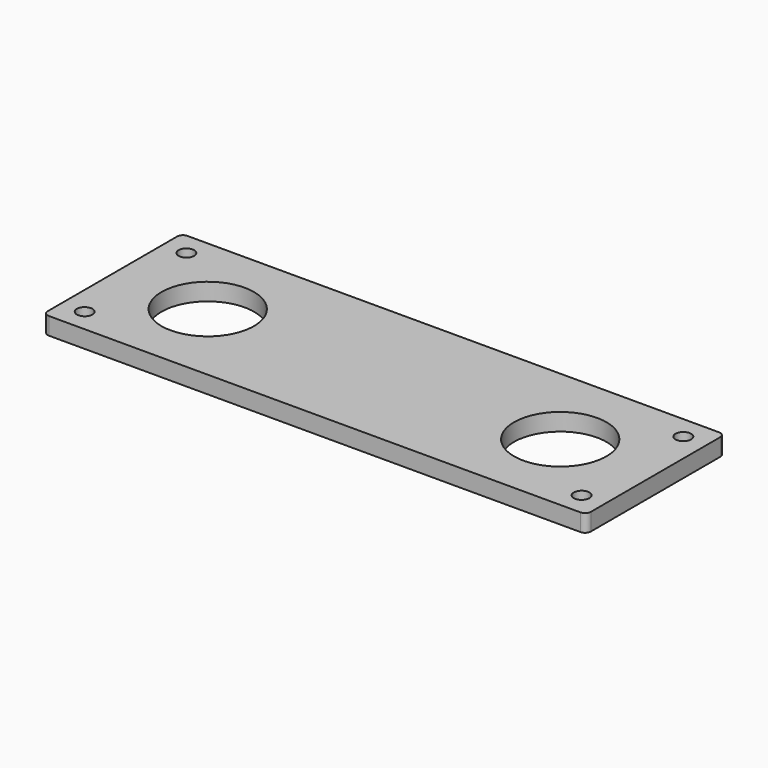
from build123d import *

# Parameters (mm, degrees)
SKETCH006_W             = 94
SKETCH006_H             = 30
PAD002_DEPTH            = 3
SKETCH008_R             = 8
HOLE002_DEPTH           = 25
SKETCH007_R             = 1.35
HOLE003_DEPTH           = 25
FILLET001_R             = 1
BODY001_PLACEMENT_ANGLE = 180


with BuildPart() as part:
    # Sketch006 → Pad002 (new body)
    with BuildSketch(Plane(origin=(0, 0, -13), x_dir=(1, 0, 0), z_dir=(0, 0, -1))):
        with Locations((107, 0)):
            Rectangle(SKETCH006_W, SKETCH006_H)
    extrude(amount=-PAD002_DEPTH)

    # Sketch008 (on Face6 of Pad002) → Hole002 (cut)
    with BuildSketch(Plane.XY.offset(-10)):
        with Locations((76.5, 0)):
            Circle(SKETCH008_R)
        with Locations((137.5, 0)):
            Circle(SKETCH008_R)
    extrude(amount=-HOLE002_DEPTH, mode=Mode.SUBTRACT)

    # Sketch007 (on Face5 of Pad002) → Hole003 (cut)
    with BuildSketch(Plane(origin=(0, 0, -13), x_dir=(1, 0, 0), z_dir=(0, 0, -1))):
        with Locations((64, -11)):
            Circle(SKETCH007_R)
        with Locations((64, 11)):
            Circle(SKETCH007_R)
        with Locations((150, 11)):
            Circle(SKETCH007_R)
        with Locations((150, -11)):
            Circle(SKETCH007_R)
    extrude(amount=-HOLE003_DEPTH, mode=Mode.SUBTRACT)

    # Fillet001
    fillet001_edges = [part.edges().sort_by_distance(p)[0] for p in [
        (154, -15, -11.5),
        (154, 15, -11.5),
        (60, 15, -11.5),
        (60, -15, -11.5),
    ]]
    fillet(fillet001_edges, radius=FILLET001_R)


with BuildPart() as part_1:
    # Body001 placement: moved
    add(part.part.moved(Location((0, 0, -13))).rotate(Axis((0, 0, -13), (0, 1, 0)), BODY001_PLACEMENT_ANGLE))


solid = part_1.part
